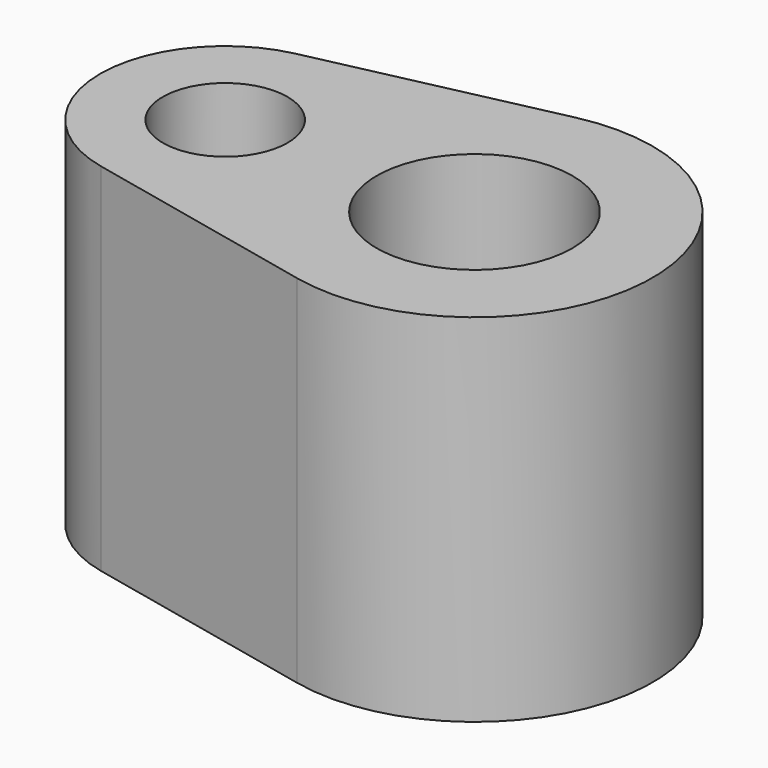
from build123d import *

# Parameters (mm, degrees)
F5_DEPTH = 20
F3_R     = 3.5
F6_DEPTH = 20
F1_R     = 5.5
F7_DEPTH = 20


with BuildPart() as f5:
    # F4 (on Top) → F5 (new body)
    with BuildSketch(Plane.XY):
        with BuildLine():
            Line((-15.51383, -6.837761), (-2.140489, -9.768229))
            ThreePointArc((-2.140489, -9.768229), (10, 0), (-2.140489, 9.768229))
            Line((-2.140489, 9.768229), (-15.51383, 6.837761))
            ThreePointArc((-15.51383, 6.837761), (-21.015487, 0), (-15.51383, -6.837761))
        make_face()
    extrude(amount=F5_DEPTH)

    # F3 (on Top) → F6 (cut)
    with BuildSketch(Plane.XY):
        with Locations((-14, 0)):
            Circle(F3_R)
    extrude(amount=F6_DEPTH, mode=Mode.SUBTRACT)

    # F1 (on Top) → F7 (cut)
    with BuildSketch(Plane.XY):
        Circle(F1_R)
    extrude(amount=F7_DEPTH, mode=Mode.SUBTRACT)


solid = f5.part
